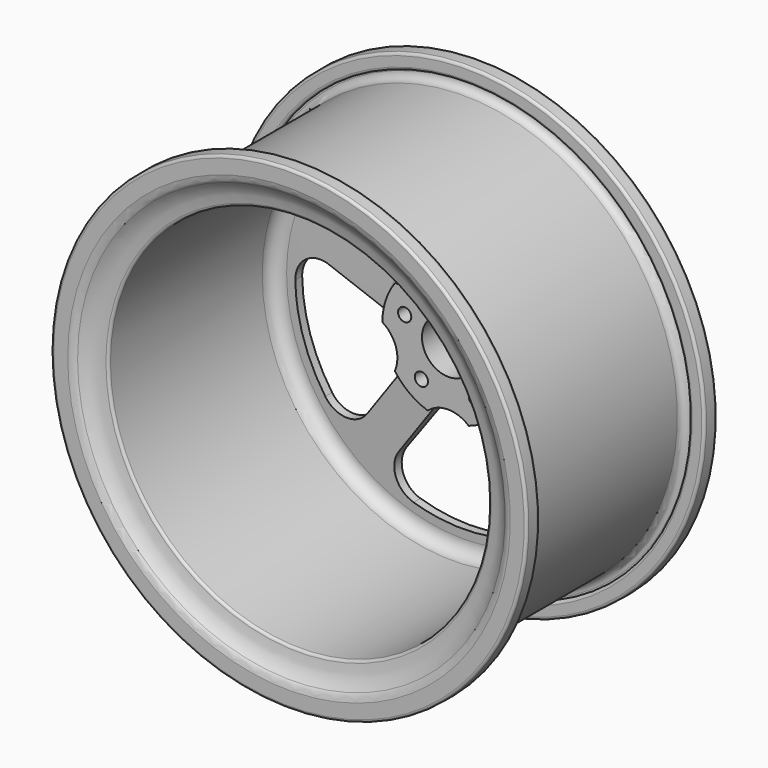
from build123d import *

# Parameters (mm, degrees)
F2_R     = 6.35
F3_DEPTH = 216.946046


with BuildPart() as f1:
    # F0 (on Top) → F1 (revolve)
    with BuildSketch(Plane.XY):
        with BuildLine():
            Line((-63.5, 0), (-25.4, 0))
            Line((-25.4, 0), (-25.4, 25.4))
            Line((-25.4, 25.4), (-63.5, 25.4))
            Line((-63.5, 25.4), (-182.88, 25.4))
            ThreePointArc((-182.88, 25.4), (-195.00376, 27.687301), (-205.460733, 34.234745))
            ThreePointArc((-205.460733, 34.234745), (-208.798786, 36.324806), (-212.668907, 37.054954))
            Line((-212.668907, 37.054954), (-214.310899, 37.054954))
            Line((-214.310899, 37.054954), (-226.06, 37.054954))
            ThreePointArc((-226.06, 37.054954), (-227.856051, 36.311005), (-228.6, 34.514954))
            Line((-228.6, 34.514954), (-228.6, 24.354954))
            ThreePointArc((-228.6, 24.354954), (-227.856051, 22.558902), (-226.06, 21.814954))
            Line((-226.06, 21.814954), (-216.850899, 21.814954))
            ThreePointArc((-216.850899, 21.814954), (-215.054847, 22.558902), (-214.310899, 24.354954))
            Line((-214.310899, 24.354954), (-214.310899, 25.4))
            Line((-214.310899, 25.4), (-212.668907, 25.4))
            ThreePointArc((-212.668907, 25.4), (-207.571959, 23.288775), (-205.460733, 18.191827))
            Line((-205.460733, 18.191827), (-205.460733, -77.245046))
            Line((-205.460733, -77.245046), (-182.88, -77.245046))
            Line((-182.88, -77.245046), (-182.88, 4.894158))
            ThreePointArc((-182.88, 4.894158), (-178.951489, 14.078438), (-169.59638, 17.580741))
            Line((-169.59638, 17.580741), (-69.55819, 12.978694))
            ThreePointArc((-69.55819, 12.978694), (-65.25786, 11.021147), (-63.5, 6.635403))
            Line((-63.5, 6.635403), (-63.5, 0))
        make_face()
        with BuildLine():
            Line((-182.88, -177.440276), (-182.88, -77.245046))
            Line((-182.88, -77.245046), (-205.460733, -77.245046))
            Line((-205.460733, -77.245046), (-205.460733, -172.68192))
            ThreePointArc((-205.460733, -172.68192), (-207.571959, -177.778868), (-212.668907, -179.890093))
            Line((-212.668907, -179.890093), (-214.310899, -179.890093))
            Line((-214.310899, -179.890093), (-214.310899, -178.845046))
            ThreePointArc((-214.310899, -178.845046), (-215.054847, -177.048995), (-216.850899, -176.305046))
            Line((-216.850899, -176.305046), (-226.06, -176.305046))
            ThreePointArc((-226.06, -176.305046), (-227.856051, -177.048995), (-228.6, -178.845046))
            Line((-228.6, -178.845046), (-228.6, -189.005046))
            ThreePointArc((-228.6, -189.005046), (-227.856051, -190.801098), (-226.06, -191.545046))
            Line((-226.06, -191.545046), (-214.310899, -191.545046))
            Line((-214.310899, -191.545046), (-212.668907, -191.545046))
            ThreePointArc((-212.668907, -191.545046), (-208.798786, -190.814899), (-205.460733, -188.724838))
            ThreePointArc((-205.460733, -188.724838), (-196.095639, -182.627094), (-185.23986, -179.97388))
            ThreePointArc((-185.23986, -179.97388), (-183.561351, -179.171467), (-182.88, -177.440276))
        make_face()
    revolve(axis=Axis((0, 32.115374, 0), (0, 1, 0)))

    # F2 (on face) → F3 (cut, through all)
    with BuildSketch(Plane(origin=(0, 25.4, 0), x_dir=(-1, 0, 0), z_dir=(0, 1, 0))):
        with Locations((0, 44.201422)):
            Circle(F2_R)
        with Locations((42.038051, 13.658991)):
            Circle(F2_R)
        with Locations((25.980944, -35.759702)):
            Circle(F2_R)
        with Locations((-25.980944, -35.759702)):
            Circle(F2_R)
        with Locations((-42.038051, 13.658991)):
            Circle(F2_R)
        with BuildLine():
            Line((-116.199251, 57.250239), (-58.357381, 38.456276))
            ThreePointArc((-58.357381, 38.456276), (-31.428053, 42.721462), (-19.05, 67.01476))
            Line((-19.05, 67.01476), (-19.05, 128.02765))
            ThreePointArc((-19.05, 128.02765), (-29.726597, 148.725027), (-52.78082, 152.022596))
            ThreePointArc((-52.78082, 152.022596), (-94.847633, 130.002351), (-128.65722, 96.66439))
            ThreePointArc((-128.65722, 96.66439), (-132.569207, 73.75197), (-116.199251, 57.250239))
        make_face()
        with BuildLine():
            Line((18.540669, 128.203351), (18.540669, 67.38481))
            ThreePointArc((18.540669, 67.38481), (30.918723, 43.091513), (57.84805, 38.826326))
            Line((57.84805, 38.826326), (115.874757, 57.680346))
            ThreePointArc((115.874757, 57.680346), (132.259882, 74.230235), (128.27191, 97.175109))
            ThreePointArc((128.27191, 97.175109), (94.330053, 130.378395), (52.176031, 152.231227))
            ThreePointArc((52.176031, 152.231227), (29.176154, 148.871421), (18.540669, 128.203351))
        make_face()
        with BuildLine():
            Line((127.658015, 21.98379), (69.816145, 3.189827))
            ThreePointArc((69.816145, 3.189827), (50.536875, -16.089443), (54.802061, -43.01877))
            Line((54.802061, -43.01877), (90.664538, -92.379236))
            ThreePointArc((90.664538, -92.379236), (111.4677, -102.848219), (132.057221, -91.965076))
            ThreePointArc((132.057221, -91.965076), (153.146811, -49.424072), (160.903781, -2.580318))
            ThreePointArc((160.903781, -2.580318), (150.601062, 18.255628), (127.658015, 21.98379))
        make_face()
        with BuildLine():
            Line((60.356323, -114.616622), (24.608081, -65.413389))
            ThreePointArc((24.608081, -65.413389), (0.314784, -53.035335), (-23.978514, -65.413389))
            Line((-23.978514, -65.413389), (-59.840991, -114.773854))
            ThreePointArc((-59.840991, -114.773854), (-63.369055, -137.79393), (-46.656059, -154.012652))
            ThreePointArc((-46.656059, -154.012652), (0.319882, -160.924151), (47.267975, -153.825951))
            ThreePointArc((47.267975, -153.825951), (63.900421, -137.588822), (60.356323, -114.616622))
        make_face()
        with BuildLine():
            Line((-90.355756, -92.820758), (-54.607514, -43.617525))
            ThreePointArc((-54.607514, -43.617525), (-50.342328, -16.688197), (-69.621598, 2.591073))
            Line((-69.621598, 2.591073), (-127.648305, 21.445093))
            ThreePointArc((-127.648305, 21.445093), (-150.63193, 17.686887), (-160.892251, -3.219977))
            ThreePointArc((-160.892251, -3.219977), (-152.949114, -50.032523), (-131.690566, -92.489349))
            ThreePointArc((-131.690566, -92.489349), (-111.10843, -103.290196), (-90.355756, -92.820758))
        make_face()
    extrude(amount=-F3_DEPTH, mode=Mode.SUBTRACT)


solid = f1.part
